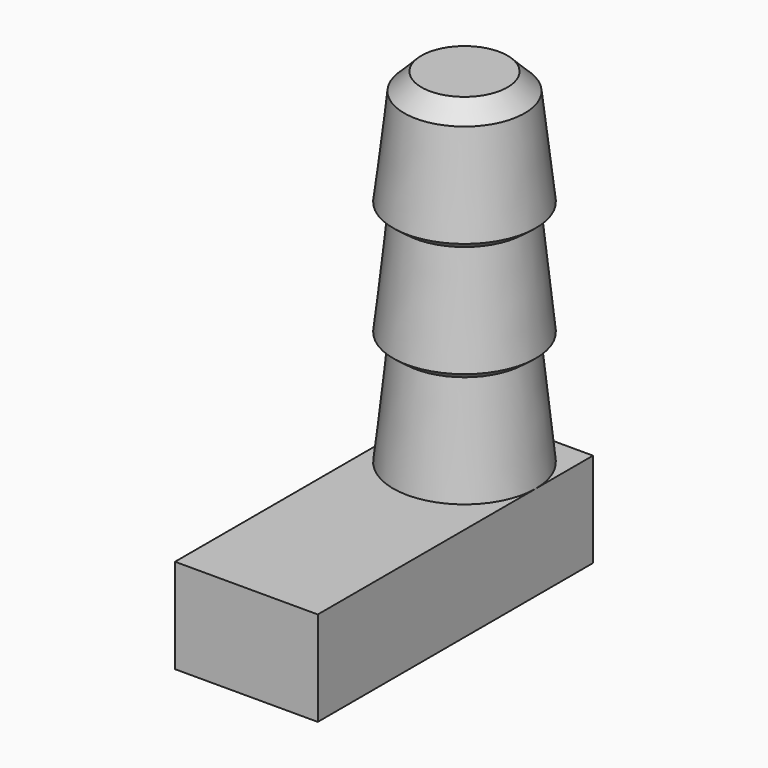
from build123d import *

# Parameters (mm, degrees)
SKETCH002_W = 8.3
SKETCH002_H = 20
PAD_DEPTH   = 5.5


with BuildPart() as part:
    # Sketch002 → Pad (new body)
    with BuildSketch(Plane.XY):
        with Locations((0, -5.85)):
            Rectangle(SKETCH002_W, SKETCH002_H)
    extrude(amount=PAD_DEPTH)

    # Sketch003 → Revolution (revolve)
    with BuildSketch(Plane.YZ):
        Polygon((0, 5.5), (4.15, 5.5), (3.5, 11.666667), (4.15, 12.166667), (3.5, 18.333334), (4.15, 18.833334), (3.5, 24.500001), (2.5, 25.500001), (0, 25.500001), align=None)
    revolve(axis=Axis((0, 0, 0), (0, 0, 1)))


solid = part.part
